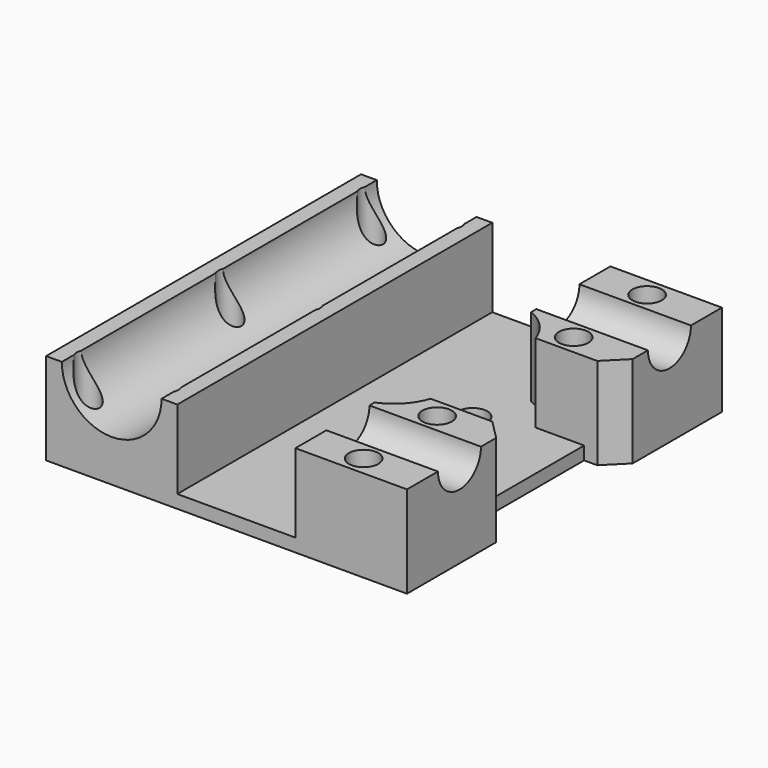
from build123d import *

# Parameters (mm, degrees)
SKETCH_W        = 55
SKETCH_H        = 60
PAD_DEPTH       = 14
SKETCH001_R     = 7.6
POCKET_DEPTH    = 60.001
SKETCH002_R     = 1.75
POCKET001_DEPTH = 14.001
POCKET002_DEPTH = 12
SKETCH004_R     = 2.25
POCKET003_DEPTH = 14.001
SKETCH008_R     = 4.1
POCKET005_DEPTH = 20
SKETCH010_W     = 20
SKETCH010_H     = 25
POCKET006_DEPTH = 5
SKETCH011_R     = 2.25
POCKET007_DEPTH = 10
CHAMFER_SIZE    = 3
CHAMFER001_SIZE = 3
POCKET008_DEPTH = 4.5


with BuildPart() as part:
    # Sketch → Pad (new body)
    with BuildSketch(Plane.XY):
        with Locations((17.5, 0)):
            Rectangle(SKETCH_W, SKETCH_H)
    extrude(amount=PAD_DEPTH)

    # Sketch001 → Pocket (cut, through all)
    with BuildSketch(Plane.XZ.offset(30)):
        with Locations((0, 14)):
            Circle(SKETCH001_R)
    extrude(amount=-POCKET_DEPTH, mode=Mode.SUBTRACT)

    # Sketch002 → Pocket001 (cut, through all)
    with BuildSketch(Plane(origin=(0, 0, 0), x_dir=(1, 0, 0), z_dir=(0, 0, -1))):
        with Locations((-6, 27)):
            Circle(SKETCH002_R)
        with Locations((-6, -27)):
            Circle(SKETCH002_R)
        with Locations((6, 27)):
            Circle(SKETCH002_R)
        with Locations((6, -27)):
            Circle(SKETCH002_R)
        with Locations((6, 0)):
            Circle(SKETCH002_R)
        with Locations((-6, 0)):
            Circle(SKETCH002_R)
    extrude(amount=-POCKET001_DEPTH, mode=Mode.SUBTRACT)

    # Sketch003 → Pocket002 (cut)
    with BuildSketch(Plane.XY.offset(14)):
        with BuildLine():
            Line((10, 35), (10, -35))
            Line((10, -35), (28, -35))
            Line((28, -35), (28, -14.916198))
            ThreePointArc((28, -14.916198), (30.841983, -12.965458), (32.599342, -10))
            Line((32.599342, -10), (52.599342, -10))
            Line((52.599342, -10), (52.599342, 10))
            Line((52.599342, 10), (32.599342, 10))
            ThreePointArc((32.599342, 10), (30.841983, 12.965458), (28, 14.916198))
            Line((28, 14.916198), (28, 35))
            Line((28, 35), (10, 35))
        make_face()
    extrude(amount=-POCKET002_DEPTH, mode=Mode.SUBTRACT)

    # Sketch004 → Pocket003 (cut, through all)
    with BuildSketch(Plane(origin=(0, 0, 0), x_dir=(1, 0, 0), z_dir=(0, 0, -1))):
        with Locations((25, 7.5)):
            Circle(SKETCH004_R)
        with Locations((25, -7.5)):
            Circle(SKETCH004_R)
    extrude(amount=-POCKET003_DEPTH, mode=Mode.SUBTRACT)

    # Sketch008 → Pocket005 (cut)
    with BuildSketch(Plane.YZ.offset(45)):
        with Locations((-20, 14)):
            Circle(SKETCH008_R)
        with Locations((20, 14)):
            Circle(SKETCH008_R)
    extrude(amount=-POCKET005_DEPTH, mode=Mode.SUBTRACT)

    # Sketch010 → Pocket006 (cut)
    with BuildSketch(Plane.YZ.offset(45)):
        with Locations((0, 6.5)):
            Rectangle(SKETCH010_W, SKETCH010_H)
    extrude(amount=-POCKET006_DEPTH, mode=Mode.SUBTRACT)

    # Sketch011 → Pocket007 (cut)
    with BuildSketch(Plane.XY.offset(14)):
        with Locations((36, 27)):
            Circle(SKETCH011_R)
        with Locations((36, 13)):
            Circle(SKETCH011_R)
        with Locations((36, -13)):
            Circle(SKETCH011_R)
        with Locations((36, -27)):
            Circle(SKETCH011_R)
    extrude(amount=-POCKET007_DEPTH, mode=Mode.SUBTRACT)

    # Chamfer
    chamfer_edges = [part.edges().sort_by_distance(p)[0] for p in [
        (45, -10, 8),
        (45, -10, 1),
    ]]
    chamfer(chamfer_edges, length=CHAMFER_SIZE)

    # Chamfer001
    chamfer001_edges = [part.edges().sort_by_distance(p)[0] for p in [
        (45, 10, 8),
        (45, 10, 1),
    ]]
    chamfer(chamfer001_edges, length=CHAMFER001_SIZE)

    # Sketch012 → Pocket008 (cut)
    with BuildSketch(Plane(origin=(0, 0, 0), x_dir=(1, 0, 0), z_dir=(0, 0, -1))):
        Polygon((-4.412285, 29.750003), (-7.587715, 29.750003), (-9.17543, 27), (-7.587715, 24.249997), (-4.412285, 24.249997), (-2.82457, 27), align=None)
        Polygon((7.587715, 29.750003), (4.412285, 29.750003), (2.82457, 27), (4.412285, 24.249997), (7.587715, 24.249997), (9.17543, 27), align=None)
        Polygon((-4.412285, 2.750003), (-7.587715, 2.750003), (-9.17543, 0), (-7.587715, -2.750003), (-4.412285, -2.750003), (-2.82457, 0), align=None)
        Polygon((7.587715, 2.750003), (4.412285, 2.750003), (2.82457, 0), (4.412285, -2.750003), (7.587715, -2.750003), (9.17543, 0), align=None)
        Polygon((-4.412285, -24.249997), (-7.587715, -24.249997), (-9.17543, -27), (-7.587715, -29.750003), (-4.412285, -29.750003), (-2.82457, -27), align=None)
        Polygon((7.587715, -24.249997), (4.412285, -24.249997), (2.82457, -27), (4.412285, -29.750003), (7.587715, -29.750003), (9.17543, -27), align=None)
    extrude(amount=-POCKET008_DEPTH, mode=Mode.SUBTRACT)


solid = part.part
